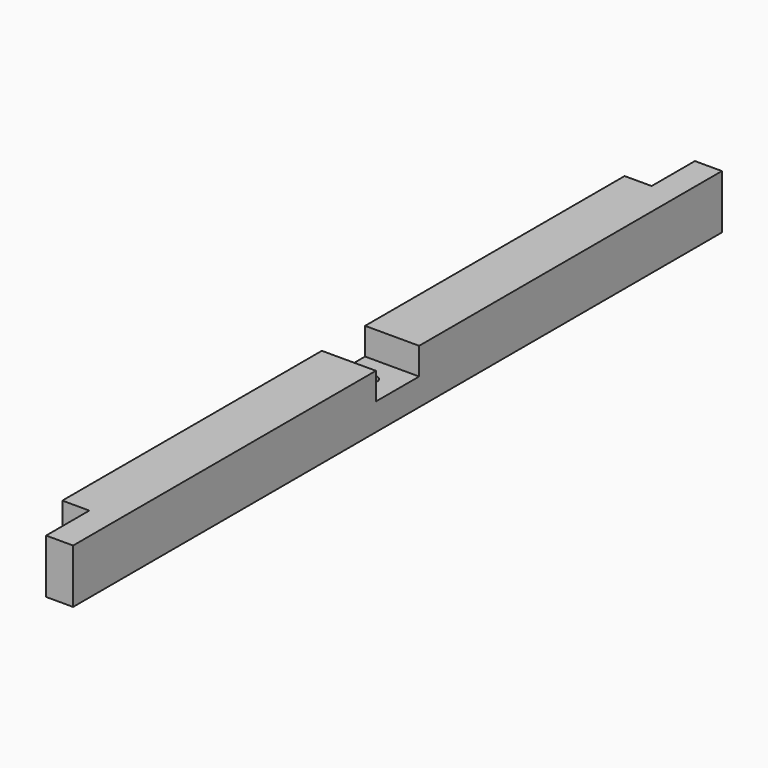
from build123d import *

# Parameters (mm, degrees)
SKETCH018_W     = 40
SKETCH018_H     = 40
PAD018_DEPTH    = 600
SKETCH019_W     = 40
SKETCH019_H     = 40
POCKET_DEPTH    = 20
SKETCH020_W     = 40
SKETCH020_H     = 40
POCKET001_DEPTH = 20
SKETCH064_R     = 5
POCKET019_DEPTH = 40.001


with BuildPart() as part:
    # Sketch018 → Pad018 (new body)
    with BuildSketch(Plane.XZ):
        with Locations((20, 280)):
            Rectangle(SKETCH018_W, SKETCH018_H)
    extrude(amount=PAD018_DEPTH)

    # Sketch019 (on Face4 of Pad018) → Pocket (cut)
    with BuildSketch(Plane(origin=(0, 0, 0), x_dir=(0, 0, -1), z_dir=(-1, 0, 0))):
        with Locations((-280, 580)):
            Rectangle(SKETCH019_W, SKETCH019_H)
        with Locations((-280, 20)):
            Rectangle(SKETCH019_W, SKETCH019_H)
    extrude(amount=-POCKET_DEPTH, mode=Mode.SUBTRACT)

    # Sketch020 (on Face1 of Pocket) → Pocket001 (cut)
    with BuildSketch(Plane(origin=(0, 0, 300), x_dir=(-1, 0, 0), z_dir=(0, 0, 1))):
        with Locations((-20, 300)):
            Rectangle(SKETCH020_W, SKETCH020_H)
    extrude(amount=-POCKET001_DEPTH, mode=Mode.SUBTRACT)

    # Sketch064 (on Face8 of Pocket001) → Pocket019 (cut, through all)
    with BuildSketch(Plane(origin=(0, 0, 260), x_dir=(1, 0, 0), z_dir=(0, 0, -1))):
        with Locations((20, 300)):
            Circle(SKETCH064_R)
    extrude(amount=-POCKET019_DEPTH, mode=Mode.SUBTRACT)


with BuildPart() as part_1:
    # Clone008 placement: moved
    add(part.part.moved(Location((730, 0, 0))))


with BuildPart() as part_2:
    # Clone012 placement: moved
    add(part_1.part.moved(Location((0, 0, 450))))


solid = part_2.part
